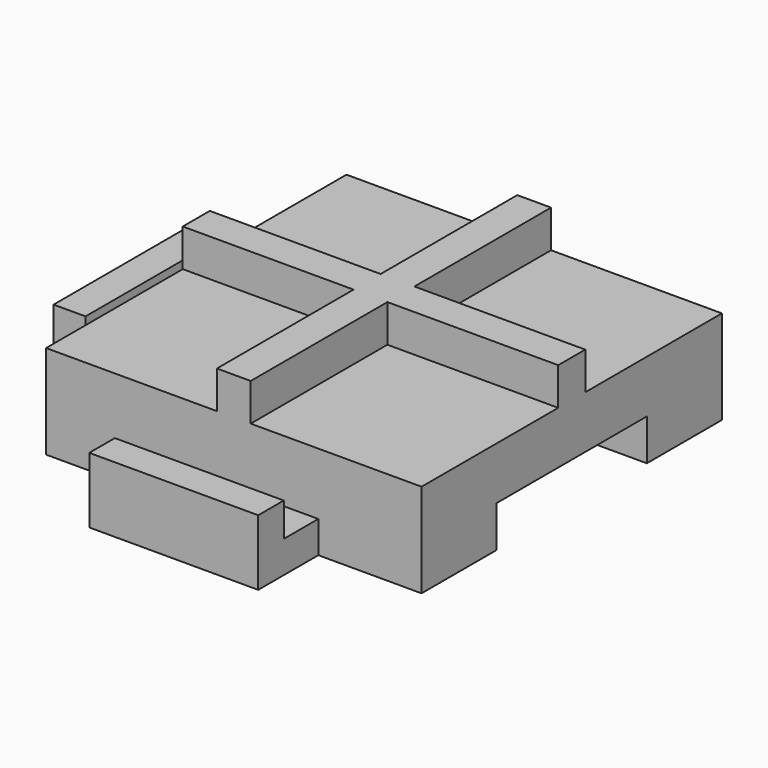
from build123d import *

# Parameters (mm, degrees)
F0_W      = 20
F0_H      = 20
F1_DEPTH  = 5
F2_W      = 1.8
F2_H      = 9.1
F2_H_2    = 1.8
F2_W_2    = 9.1
F3_DEPTH  = 2
F4_W      = 9
F4_H      = 1.7
F5_DEPTH  = 4
F6_W      = 9
F6_H      = 1.7
F7_DEPTH  = 4
F8_W      = 10
F8_H      = 2.2
F9_DEPTH  = 4
F10_W     = 10
F10_H     = 2.2
F11_DEPTH = 4
F12_W     = 2
F12_H     = 10
F13_DEPTH = 2.2
F14_W     = 10
F14_H     = 2
F15_DEPTH = 2.2
F16_W     = 9
F16_H     = 1.7
F17_DEPTH = 1.8
F18_W     = 1.7
F18_H     = 9
F19_DEPTH = 1.8


with BuildPart() as f1:
    # F0 (on Top) → F1 (new body)
    with BuildSketch(Plane.XY):
        with Locations((-15.7790486701, 11.8990262393)):
            Rectangle(F0_W, F0_H)
    extrude(amount=F1_DEPTH)

    # F2 (on face) → F3 (join)
    with BuildSketch(Plane.XY.offset(5)):
        with Locations((-15.7790486701, 17.3490262393)):
            Rectangle(F2_W, F2_H)
        with Locations((-15.7790486701, 11.8990262393)):
            Rectangle(F2_W, F2_H_2)
        with Locations((-21.2290486701, 11.8990262393)):
            Rectangle(F2_W_2, F2_H_2)
        with Locations((-10.3290486701, 11.8990262393)):
            Rectangle(F2_W_2, F2_H_2)
        with Locations((-15.7790486701, 6.4490262393)):
            Rectangle(F2_W, F2_H)
    extrude(amount=F3_DEPTH)

    # F4 (on face) → F5 (join)
    with BuildSketch(Plane.XZ.offset(-1.8990262393)):
        with Locations((-15.7790486701, 0.85)):
            Rectangle(F4_W, F4_H)
    extrude(amount=F5_DEPTH)

    # F6 (on face) → F7 (join)
    with BuildSketch(Plane(origin=(-25.7790486701, 0, 0), x_dir=(0, -1, 0), z_dir=(-1, 0, 0))):
        with Locations((-11.8990262393, 0.85)):
            Rectangle(F6_W, F6_H)
    extrude(amount=F7_DEPTH)

    # F8 (on face) → F9 (cut)
    with BuildSketch(Plane(origin=(0, 21.8990262393, 0), x_dir=(-1, 0, 0), z_dir=(0, 1, 0))):
        with Locations((15.7790486701, 1.1)):
            Rectangle(F8_W, F8_H)
    extrude(amount=-F9_DEPTH, mode=Mode.SUBTRACT)

    # F10 (on face) → F11 (cut)
    with BuildSketch(Plane.YZ.offset(-5.7790486701)):
        with Locations((11.8990262393, 1.1)):
            Rectangle(F10_W, F10_H)
    extrude(amount=-F11_DEPTH, mode=Mode.SUBTRACT)

    # F12 (on face) → F13 (cut)
    with BuildSketch(Plane(origin=(0, 0, 2.2), x_dir=(1, 0, 0), z_dir=(0, 0, -1))):
        with Locations((-8.7790486701, -11.8990262393)):
            Rectangle(F12_W, F12_H)
    extrude(amount=-F13_DEPTH, mode=Mode.SUBTRACT)

    # F14 (on face) → F15 (cut)
    with BuildSketch(Plane(origin=(0, 0, 2.2), x_dir=(1, 0, 0), z_dir=(0, 0, -1))):
        with Locations((-15.7790486701, -18.8990262393)):
            Rectangle(F14_W, F14_H)
    extrude(amount=-F15_DEPTH, mode=Mode.SUBTRACT)

    # F16 (on face) → F17 (join)
    with BuildSketch(Plane.XY.offset(1.7)):
        with Locations((-15.7790486701, -1.2509737607)):
            Rectangle(F16_W, F16_H)
    extrude(amount=F17_DEPTH)

    # F18 (on face) → F19 (join)
    with BuildSketch(Plane.XY.offset(1.7)):
        with Locations((-28.9290486701, 11.8990262393)):
            Rectangle(F18_W, F18_H)
    extrude(amount=F19_DEPTH)


solid = f1.part
